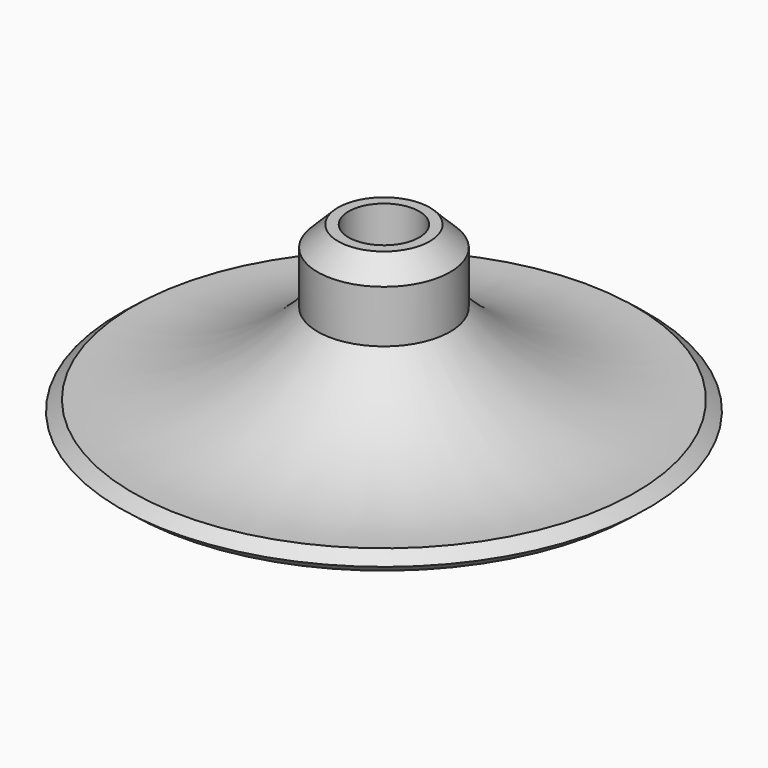
from build123d import *

# Parameters (mm, degrees)
F2_R      = 4.7625
F3_DEPTH  = 14.605
F4_R      = 1.6002
F5_DEPTH  = 10.16
F6_R      = 4.7752
F7_DEPTH  = 14.605
F8_R      = 3.728231
F9_DEPTH  = 14.605
F10_R     = 1.6002
F11_DEPTH = 10.16
F12_SIZE  = 2.159
F13_R     = 1.778


with BuildPart() as f1:
    # F0 (on Right) → F1 (revolve)
    with BuildSketch(Plane.YZ):
        with BuildLine():
            Line((0, 30.265944), (0, 0))
            Line((0, 0), (2.686187, 0))
            ThreePointArc((2.686187, 0), (13.141494, 8.903682), (26.541598, 11.90805))
            Line((26.541598, 11.90805), (27.856382, 12.945489))
            Line((27.856382, 12.945489), (26.541598, 13.987607))
            ThreePointArc((26.541598, 13.987607), (15.736911, 15.929647), (6.995791, 22.570852))
            Line((6.995791, 22.570852), (6.995791, 30.265944))
            Line((6.995791, 30.265944), (0, 30.265944))
        make_face()
    revolve(axis=Axis((0, 0, 15.132972), (0, 0, -1)))

    # F2 (on face) → F3 (join)
    with BuildSketch(Plane.XY.offset(30.265944)):
        Circle(F2_R)
    extrude(amount=-F3_DEPTH)

    # F4 (on Top) → F5 (join)
    with BuildSketch(Plane.XY):
        Circle(F4_R)
    extrude(amount=F5_DEPTH)

    # F6 (on face) → F7 (join)
    with BuildSketch(Plane.XY.offset(30.265944)):
        Circle(F6_R)
    extrude(amount=-F7_DEPTH)

    # F8 (on face) → F9 (cut)
    with BuildSketch(Plane.XY.offset(30.265944)):
        Circle(F8_R)
    extrude(amount=-F9_DEPTH, mode=Mode.SUBTRACT)

    # F10 (on Top) → F11 (cut)
    with BuildSketch(Plane.XY):
        Circle(F10_R)
    extrude(amount=F11_DEPTH, mode=Mode.SUBTRACT)

    # F12
    f12_edges = [f1.edges().sort_by_distance(p)[0] for p in [
        (0, -6.995791, 30.265944),
    ]]
    chamfer(f12_edges, length=F12_SIZE)

    # F13
    f13_edges = [f1.edges().sort_by_distance(p)[0] for p in [
        (0, -2.686187, 0),
    ]]
    fillet(f13_edges, radius=F13_R)


solid = f1.part
